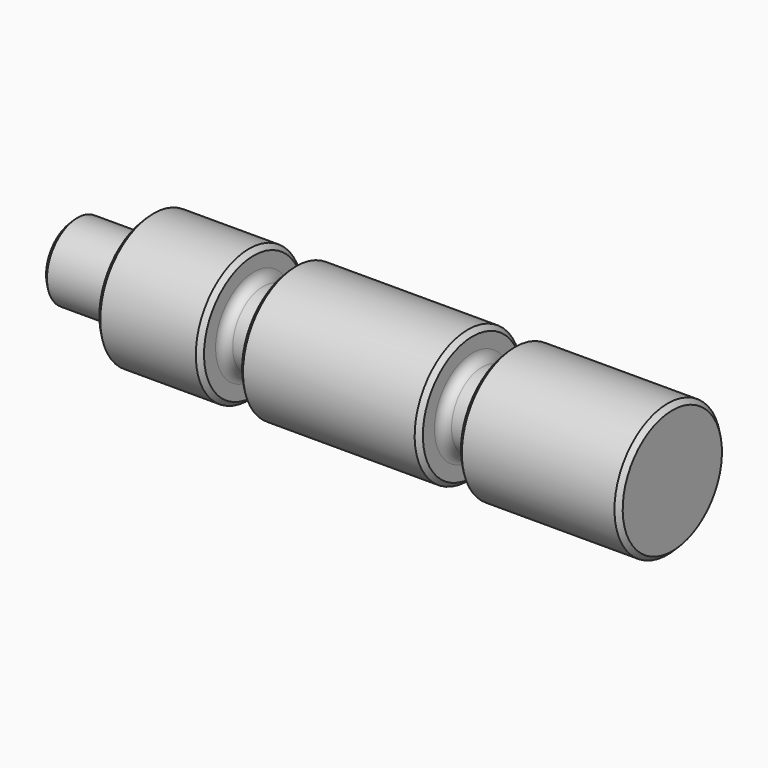
from build123d import *

# Parameters (mm, degrees)
F2_SIZE = 1.524
F3_R    = 3.175


with BuildPart() as f1:
    # F0 (on Front) → F1 (revolve)
    with BuildSketch(Plane.XZ):
        Polygon((-101.6, 0), (98.425, 0), (98.425, 22.225), (44.45, 22.225), (44.45, 12.7), (31.75, 12.7), (31.75, 22.225), (-28.575, 22.225), (-28.575, 12.7), (-41.275, 12.7), (-41.275, 22.225), (-76.2, 22.225), (-76.2, 12.7), (-101.6, 12.7), align=None)
    revolve(axis=Axis((-1.658771, 0, 0), (1, 0, 0)))

    # F2
    f2_edges = [f1.edges().sort_by_distance(p)[0] for p in [
        (-101.6, 0, -12.7),
        (-76.2, 0, -22.225),
        (-41.275, 0, -22.225),
        (-28.575, 0, -22.225),
        (31.75, 0, -22.225),
        (44.45, 0, -22.225),
        (98.425, 0, -22.225),
    ]]
    chamfer(f2_edges, length=F2_SIZE)

    # F3
    f3_edges = [f1.edges().sort_by_distance(p)[0] for p in [
        (-76.2, 0, -12.7),
        (-28.575, 0, -12.7),
        (44.45, 0, -12.7),
        (-41.275, 0, -12.7),
        (31.75, 0, -12.7),
    ]]
    fillet(f3_edges, radius=F3_R)


solid = f1.part
